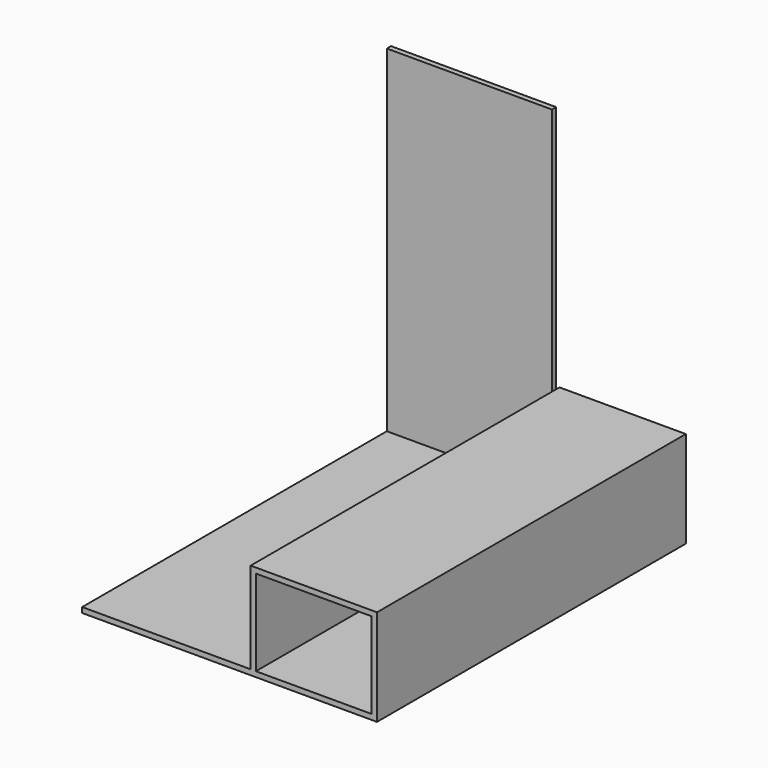
from build123d import *

# Parameters (mm, degrees)
F0_W     = 1066.8
F0_H     = 1397
F1_DEPTH = 19.05
F2_W     = 457.2
F2_H     = 1397
F3_DEPTH = 330.2
F4_W     = 597.298336
F4_H     = 19.05
F5_DEPTH = 1219.2
F6_W     = 419.1
F6_H     = 311.15
F7_DEPTH = 635


with BuildPart() as f1:
    # F0 (on Top) → F1 (new body)
    with BuildSketch(Plane.XY):
        Rectangle(F0_W, F0_H)
    extrude(amount=F1_DEPTH)

    # F2 (on face) → F3 (join)
    with BuildSketch(Plane.XY.offset(19.05)):
        with Locations((304.8, 0)):
            Rectangle(F2_W, F2_H)
    extrude(amount=F3_DEPTH)

    # F4 (on face) → F5 (join)
    with BuildSketch(Plane.XY.offset(19.05)):
        with Locations((-234.750832, 688.975)):
            Rectangle(F4_W, F4_H)
    extrude(amount=F5_DEPTH)

    # F6 (on face) → F7 (cut)
    with BuildSketch(Plane.XZ.offset(698.5)):
        with Locations((304.8, 174.625)):
            Rectangle(F6_W, F6_H)
    extrude(amount=-F7_DEPTH, mode=Mode.SUBTRACT)


solid = f1.part
